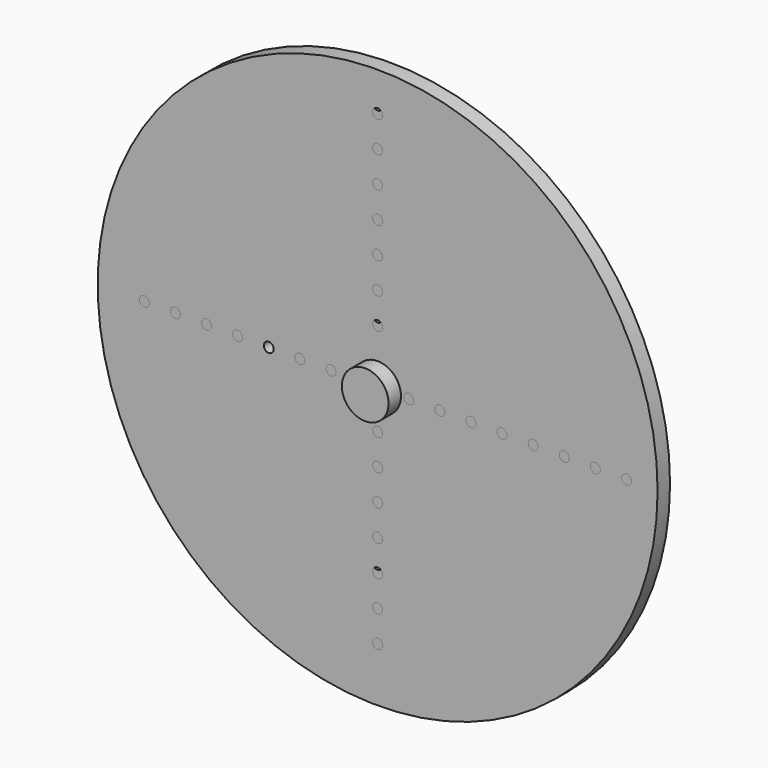
from build123d import *

# Parameters (mm, degrees)
F0_R      = 57.15
F0_R_2    = 1.016
F0_R_3    = 1.5875
F1_DEPTH  = 1.5875
F3_R      = 4.7625
F4_DEPTH  = 3.175
F5_R      = 57.15
F5_R_2    = 1.016
F6_DEPTH  = 3.175
F7_R      = 1.016
F8_DEPTH  = 3.176
F9_R      = 1.016
F10_DEPTH = 3.175
F11_R     = 1.016
F12_DEPTH = 3.176


with BuildPart() as f1:
    # F0 (on Front) → F1 (new body)
    with BuildSketch(Plane.XZ):
        Circle(F0_R)
        with Locations((-7.8066294479, -29.1347377354)):
            Circle(F0_R_2, mode=Mode.SUBTRACT)
        with Locations((-19.0830442573, -19.0830442573)):
            Circle(F0_R_2, mode=Mode.SUBTRACT)
        with Locations((-14.2875, -24.7466759131)):
            Circle(F0_R_2, mode=Mode.SUBTRACT)
        with Locations((-21.9970452561, -12.7)):
            Circle(F0_R_2, mode=Mode.SUBTRACT)
        with Locations((-23.0011087385, -6.1631285115)):
            Circle(F0_R_2, mode=Mode.SUBTRACT)
        with Locations((0, -31.75)):
            Circle(F0_R_2, mode=Mode.SUBTRACT)
        with Locations((8.6283799161, -32.2015522339)):
            Circle(F0_R_2, mode=Mode.SUBTRACT)
        with Locations((17.4625, -30.2459372272)):
            Circle(F0_R_2, mode=Mode.SUBTRACT)
        with Locations((25.8182363481, -25.8182363481)):
            Circle(F0_R_2, mode=Mode.SUBTRACT)
        with Locations((32.9955678842, -19.05)):
            Circle(F0_R_2, mode=Mode.SUBTRACT)
        with Locations((38.3351812308, -10.2718808525)):
            Circle(F0_R_2, mode=Mode.SUBTRACT)
        with Locations((-22.225, 0)):
            Circle(F0_R_2, mode=Mode.SUBTRACT)
        with Locations((-19.93429424, 5.3413780433)):
            Circle(F0_R_2, mode=Mode.SUBTRACT)
        with Locations((-16.4977839421, 9.525)):
            Circle(F0_R_2, mode=Mode.SUBTRACT)
        with Locations((-12.3478521665, 12.3478521665)):
            Circle(F0_R_2, mode=Mode.SUBTRACT)
        with Locations((-7.9375, 13.7481532851)):
            Circle(F0_R_2, mode=Mode.SUBTRACT)
        with Locations((-3.6978771069, 13.8006652431)):
            Circle(F0_R_2, mode=Mode.SUBTRACT)
        Circle(F0_R_3, mode=Mode.SUBTRACT)
        with BuildLine():
            ThreePointArc((4.1363610482, 0.3286958093), (4.1772471813, 0.1666030838), (4.191, 0))
            ThreePointArc((4.191, 0), (2.3079537294, -0.5296100118), (3.6388606995, 0.903929893))
            ThreePointArc((3.6388606995, 0.903929893), (4.4336186639, 2.2348728836), (5.6162217477, 1.2326257023))
            ThreePointArc((5.6162217477, 1.2326257023), (5.1298317595, 0.3655794317), (4.1363610482, 0.3286958093))
        make_face(mode=Mode.SUBTRACT)
        with Locations((5.499261314, 3.175)):
            Circle(F0_R_2, mode=Mode.SUBTRACT)
        with Locations((5.6126600757, 5.6126600757)):
            Circle(F0_R_2, mode=Mode.SUBTRACT)
        with Locations((4.7625, 8.248891971)):
            Circle(F0_R_2, mode=Mode.SUBTRACT)
        with Locations((2.8761266387, 10.7338507446)):
            Circle(F0_R_2, mode=Mode.SUBTRACT)
        with Locations((0, 12.7)):
            Circle(F0_R_2, mode=Mode.SUBTRACT)
        with Locations((41.275, 0)):
            Circle(F0_R_2, mode=Mode.SUBTRACT)
        with Locations((41.4019957293, 11.0936313207)):
            Circle(F0_R_2, mode=Mode.SUBTRACT)
        with Locations((38.4948291982, 22.225)):
            Circle(F0_R_2, mode=Mode.SUBTRACT)
        with Locations((23.8125, 41.2444598552)):
            Circle(F0_R_2, mode=Mode.SUBTRACT)
        with Locations((12.7371322571, 47.5356247263)):
            Circle(F0_R_2, mode=Mode.SUBTRACT)
        with Locations((0, 50.8)):
            Circle(F0_R_2, mode=Mode.SUBTRACT)
        with Locations((32.5534284389, 32.5534284389)):
            Circle(F0_R_2, mode=Mode.SUBTRACT)
    extrude(amount=F1_DEPTH)


with BuildPart() as f4:
    # F3 (on face) → F4 (new body)
    with BuildSketch(Plane.XZ.offset(1.5875)):
        Circle(F3_R)
    extrude(amount=F4_DEPTH)


with BuildPart() as f6:
    # F5 (on face) → F6 (new body)
    with BuildSketch(Plane.XZ.offset(1.5875)):
        Circle(F5_R)
        with Locations((6.35, 0)):
            Circle(F5_R_2, mode=Mode.SUBTRACT)
        with Locations((12.7, 0)):
            Circle(F5_R_2, mode=Mode.SUBTRACT)
        with Locations((19.05, 0)):
            Circle(F5_R_2, mode=Mode.SUBTRACT)
        with Locations((25.4, 0)):
            Circle(F5_R_2, mode=Mode.SUBTRACT)
        with Locations((31.75, 0)):
            Circle(F5_R_2, mode=Mode.SUBTRACT)
        with Locations((38.1, 0)):
            Circle(F5_R_2, mode=Mode.SUBTRACT)
        with Locations((44.45, 0)):
            Circle(F5_R_2, mode=Mode.SUBTRACT)
        with Locations((50.8, 0)):
            Circle(F5_R_2, mode=Mode.SUBTRACT)
    extrude(amount=-F6_DEPTH)

    # F7 (on face) → F8 (cut, through all)
    with BuildSketch(Plane.XZ.offset(1.5875)):
        with Locations((0, -33.3375)):
            Circle(F7_R)
        with Locations((0, -26.9875)):
            Circle(F7_R)
        with Locations((0, -14.2875)):
            Circle(F7_R)
        with Locations((0, -20.6375)):
            Circle(F7_R)
        with Locations((0, -39.6875)):
            Circle(F7_R)
        with Locations((0, -46.0375)):
            Circle(F7_R)
        with Locations((0, -7.9375)):
            Circle(F7_R)
    extrude(amount=-F8_DEPTH, mode=Mode.SUBTRACT)

    # F9 (on face) → F10 (cut, through all)
    with BuildSketch(Plane.XZ.offset(1.5875)):
        with Locations((-9.525, 0)):
            Circle(F9_R)
        with Locations((0, 11.1125)):
            Circle(F9_R)
        with Locations((-15.875, 0)):
            Circle(F9_R)
        with Locations((-22.225, 0)):
            Circle(F9_R)
        with Locations((-28.575, 0)):
            Circle(F9_R)
        with Locations((-34.925, 0)):
            Circle(F9_R)
        with Locations((-41.275, 0)):
            Circle(F9_R)
        with Locations((-47.625, 0)):
            Circle(F9_R)
        with Locations((0, 17.4625)):
            Circle(F9_R)
        with Locations((0, 23.8125)):
            Circle(F9_R)
        with Locations((0, 30.1625)):
            Circle(F9_R)
        with Locations((0, 36.5125)):
            Circle(F9_R)
        with Locations((0, 42.8625)):
            Circle(F9_R)
        with Locations((0, 49.2125)):
            Circle(F9_R)
    extrude(amount=-F10_DEPTH, mode=Mode.SUBTRACT)

    # F11 (on face) → F12 (cut, through all)
    with BuildSketch(Plane.XZ.offset(1.5875)):
        Circle(F11_R)
    extrude(amount=-F12_DEPTH, mode=Mode.SUBTRACT)


solid = Compound([f1.part, f4.part, f6.part])
